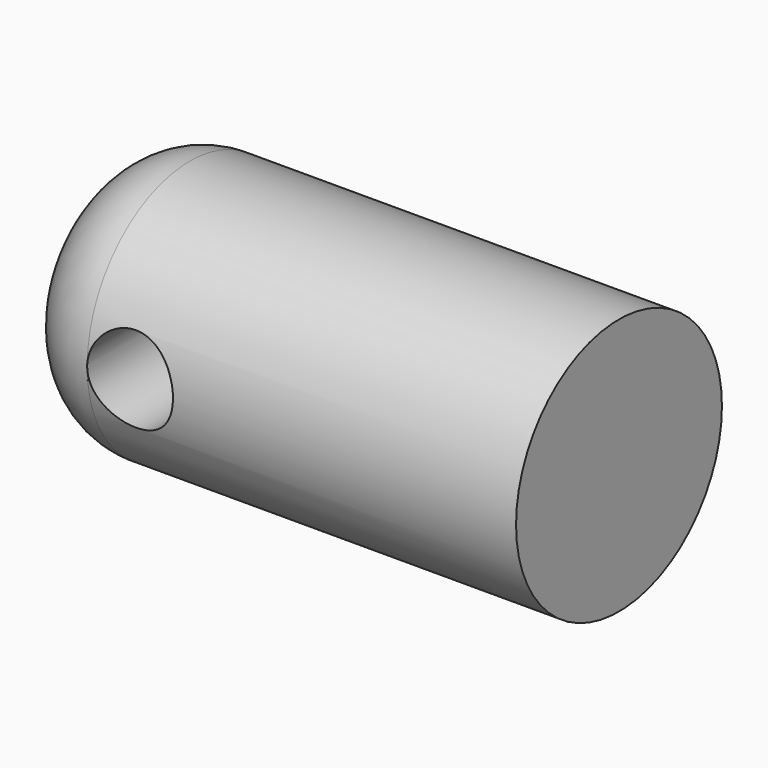
from build123d import *

# Parameters (mm, degrees)
F0_R     = 19.05
F1_DEPTH = 25.4
F2_DEPTH = 25.4
F4_R     = 12.7
F3_R     = 6.35
F5_DEPTH = 19.05


with BuildPart() as f1:
    # F0 (on Right) → F1 (new body, symmetric)
    with BuildSketch(Plane.YZ):
        Circle(F0_R)
    extrude(amount=F1_DEPTH, both=True)

    # F2 (add): a face of the model
    f2_faces = [f1.faces().sort_by_distance(p)[0] for p in [
        (-25.4, 0, 0),
    ]]
    extrude(f2_faces, amount=F2_DEPTH)

    # F4
    f4_edges = [f1.edges().sort_by_distance(p)[0] for p in [
        (-50.8, -19.05, 0),
    ]]
    fillet(f4_edges, radius=F4_R)

    # F3 (on Front) → F5 (cut, symmetric)
    with BuildSketch(Plane.XZ):
        with Locations((-31.75, 0)):
            Circle(F3_R)
    extrude(amount=F5_DEPTH, both=True, mode=Mode.SUBTRACT)


solid = f1.part
